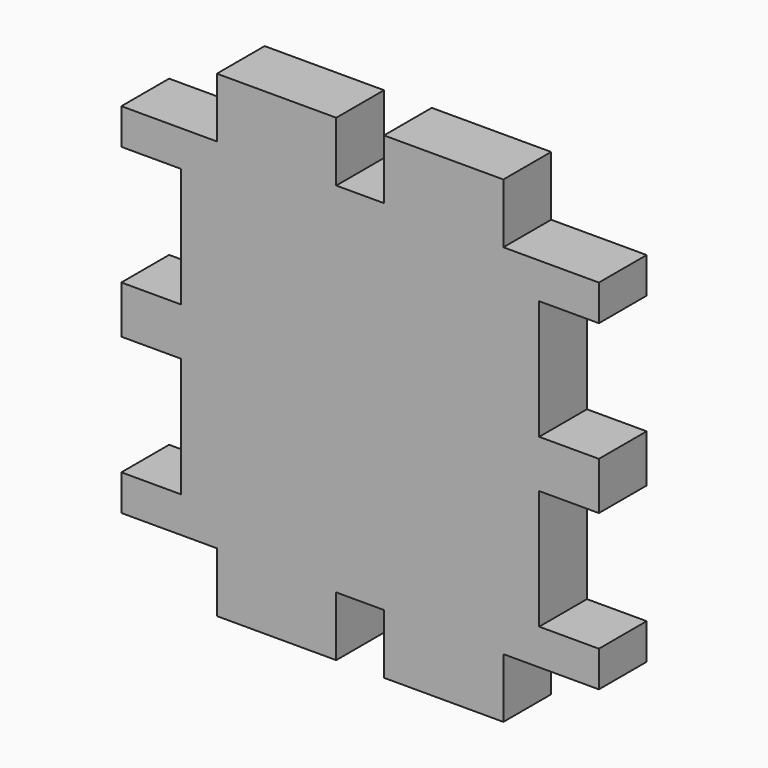
from build123d import *

# Parameters (mm, degrees)
F1_DEPTH = 6.35


with BuildPart() as f1:
    # F0 (on Front) → F1 (new body)
    with BuildSketch(Plane.XZ):
        Polygon((-15.24, -19.05), (-15.24, -25.4), (-2.54, -25.4), (-2.54, -19.05), (2.54, -19.05), (2.54, -25.4), (15.24, -25.4), (15.24, -19.05), (25.4, -19.05), (25.4, -15.24), (19.05, -15.24), (19.05, -2.54), (25.4, -2.54), (25.4, 2.54), (19.05, 2.54), (19.05, 15.24), (25.4, 15.24), (25.4, 19.05), (19.05, 19.05), (15.24, 19.05), (15.24, 25.4), (2.54, 25.4), (2.54, 19.05), (-2.54, 19.05), (-2.54, 25.4), (-15.24, 25.4), (-15.24, 19.05), (-19.05, 19.05), (-25.4, 19.05), (-25.4, 15.24), (-19.05, 15.24), (-19.05, 2.54), (-25.4, 2.54), (-25.4, -2.54), (-19.05, -2.54), (-19.05, -15.24), (-25.4, -15.24), (-25.4, -19.05), align=None)
    extrude(amount=F1_DEPTH)


solid = f1.part
